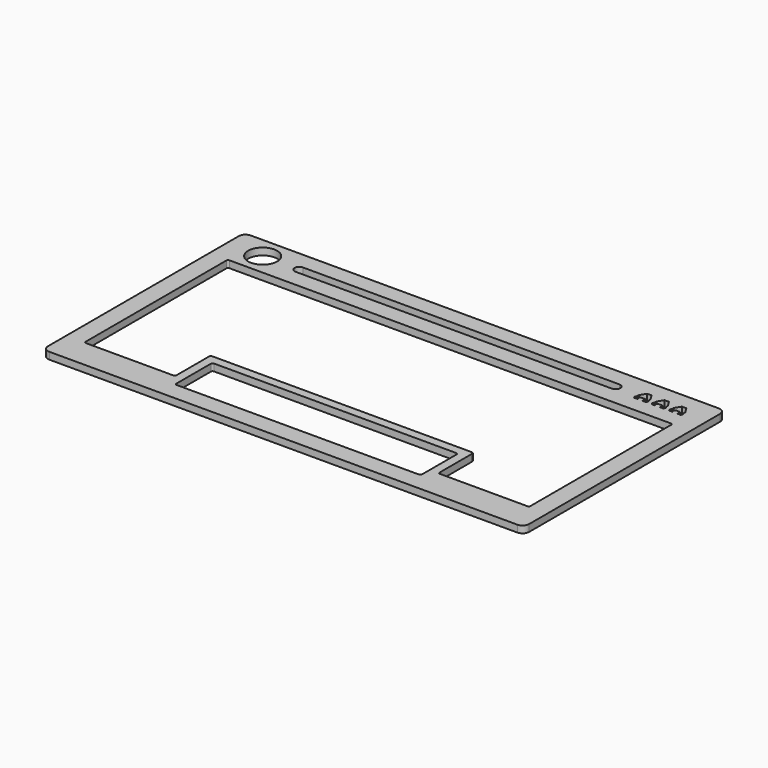
from build123d import *

# Parameters (mm, degrees)
SHAPEBINDER_W   = 20.05
SHAPEBINDER_H   = 105.775
SHAPEBINDER_R   = 6.25
PAD001_DEPTH    = 3
POCKET006_DEPTH = 3
FILLET001_R     = 0.75
SKETCH035_W     = 20
SKETCH035_H     = 1.5625
PAD015_DEPTH    = 3
POCKET025_DEPTH = 5


with BuildPart() as part:
    # ShapeBinder → Pad001 (new body)
    with BuildSketch(Plane(origin=(1.263411, 2.723963, 4.9), x_dir=(0, 1, 0), z_dir=(0, 0, 1))):
        with BuildLine():
            ThreePointArc((51.638537, 102.013411), (50.759858, 104.134731), (48.638537, 105.013411))
            Line((48.638537, 105.013411), (-54.086463, 105.013411))
            ThreePointArc((-54.086463, 105.013411), (-56.207783, 104.134731), (-57.086463, 102.013411))
            Line((-57.086463, 102.013411), (-57.086463, -99.486589))
            ThreePointArc((-57.086463, -99.486589), (-56.207783, -101.607909), (-54.086463, -102.486589))
            Line((-54.086463, -102.486589), (48.638537, -102.486589))
            ThreePointArc((48.638537, -102.486589), (50.759858, -101.607909), (51.638537, -99.486589))
            Line((51.638537, -99.486589), (51.638537, 102.013411))
        make_face()
        with Locations((-39.061463, 1.263411)):
            Rectangle(SHAPEBINDER_W, SHAPEBINDER_H, mode=Mode.SUBTRACT)
        Polygon((-44.323963, 97.013411), (32.876037, 97.013411), (32.876037, -94.486589), (-44.323963, -94.486589), (-44.323963, -55.386589), (-25.273963, -55.386589), (-25.273963, 57.913411), (-44.323963, 57.913411), align=None, mode=Mode.SUBTRACT)
        with Locations((42.257287, 89.483411)):
            Circle(SHAPEBINDER_R, mode=Mode.SUBTRACT)
        with BuildLine():
            ThreePointArc((40.257287, 73.733411), (42.257287, 75.733411), (44.257287, 73.733411))
            Line((44.257287, 73.733411), (44.257287, -62.486589))
            ThreePointArc((44.257287, -62.486589), (42.257287, -64.486589), (40.257287, -62.486589))
            Line((40.257287, -62.486589), (40.257287, 73.733411))
        make_face(mode=Mode.SUBTRACT)
        Polygon((42.257287, -72.486589), (44.757287, -74.049089), (44.757287, -75.924089), (42.257287, -77.486589), (41.319787, -77.486589), (41.319787, -76.861589), (40.538537, -77.486589), (39.757287, -76.861589), (39.757287, -75.611589), (40.538537, -76.236589), (41.319787, -75.611589), (41.319787, -74.361589), (40.538537, -73.736589), (39.757287, -74.361589), (39.757287, -73.111589), (40.538537, -72.486589), (41.319787, -73.111589), (41.319787, -72.486589), align=None, mode=Mode.SUBTRACT)
        Polygon((42.257287, -79.986589), (44.757287, -81.549089), (44.757287, -83.424089), (42.257287, -84.986589), (41.319787, -84.986589), (41.319787, -84.361589), (40.538537, -84.986589), (39.757287, -84.361589), (39.757287, -83.111589), (40.538537, -83.736589), (41.319787, -83.111589), (41.319787, -81.861589), (40.538537, -81.236589), (39.757287, -81.861589), (39.757287, -80.611589), (40.538537, -79.986589), (41.319787, -80.611589), (41.319787, -79.986589), align=None, mode=Mode.SUBTRACT)
        Polygon((42.257287, -87.486589), (44.757287, -89.049089), (44.757287, -90.924089), (42.257287, -92.486589), (41.319787, -92.486589), (41.319787, -91.861589), (40.538537, -92.486589), (39.757287, -91.861589), (39.757287, -90.611589), (40.538537, -91.236589), (41.319787, -90.611589), (41.319787, -89.361589), (40.538537, -88.736589), (39.757287, -89.361589), (39.757287, -88.111589), (40.538537, -87.486589), (41.319787, -88.111589), (41.319787, -87.486589), align=None, mode=Mode.SUBTRACT)
    extrude(amount=PAD001_DEPTH)

    # Sketch007 (on Face80 of Pad001) → Pocket006 (cut)
    with BuildSketch(Plane(origin=(0, 0, 4.9), x_dir=(1, 0, 0), z_dir=(0, 0, -1))):
        with BuildLine():
            ThreePointArc((-100.75, 56.3625), (-104.285534, 54.898034), (-105.75, 51.3625))
            Line((-105.75, -51.3625), (-105.75, 51.3625))
            ThreePointArc((-105.75, -51.3625), (-104.285534, -54.898034), (-100.75, -56.3625))
            Line((100.75, -56.3625), (-100.75, -56.3625))
            ThreePointArc((100.75, -56.3625), (104.285534, -54.898034), (105.75, -51.3625))
            Line((105.75, 51.3625), (105.75, -51.3625))
            ThreePointArc((105.75, 51.3625), (104.285534, 54.898034), (100.75, 56.3625))
            Line((-100.75, 56.3625), (100.75, 56.3625))
        make_face()
        with BuildLine():
            ThreePointArc((-100.75, 54.2125), (-102.765254, 53.377754), (-103.6, 51.3625))
            Line((-103.6, -51.3625), (-103.6, 51.3625))
            ThreePointArc((-103.6, -51.3625), (-102.765254, -53.377754), (-100.75, -54.2125))
            Line((100.75, -54.2125), (-100.75, -54.2125))
            ThreePointArc((100.75, -54.2125), (102.765254, -53.377754), (103.6, -51.3625))
            Line((103.6, 51.3625), (103.6, -51.3625))
            ThreePointArc((103.6, 51.3625), (102.765254, 53.377754), (100.75, 54.2125))
            Line((-100.75, 54.2125), (100.75, 54.2125))
        make_face(mode=Mode.SUBTRACT)
    extrude(amount=-POCKET006_DEPTH, mode=Mode.SUBTRACT)

    # Fillet001
    fillet001_edges = [part.edges().sort_by_distance(p)[0] for p in [
        (-95.75, 35.6, 6.4),
        (-95.75, -41.6, 6.4),
        (-56.65, -22.55, 6.4),
        (-56.65, -41.6, 6.4),
        (-52.8875, -46.3625, 6.4),
        (52.8875, -46.3625, 6.4),
        (52.8875, -26.3125, 6.4),
        (95.75, 35.6, 6.4),
        (-52.8875, -26.3125, 6.4),
        (95.75, -41.6, 6.4),
        (56.65, -22.55, 6.4),
        (56.65, -41.6, 6.4),
    ]]
    fillet(fillet001_edges, radius=FILLET001_R)

    # Sketch035 (on Face93 of Fillet001) → Pad015 (join)
    with BuildSketch(Plane.XY.offset(7.9)):
        with Locations((83.75, 43.2625)):
            Rectangle(SKETCH035_W, SKETCH035_H)
    extrude(amount=-PAD015_DEPTH)

    # Sketch036 (on Face69 of Pad015) → Pocket025 (cut)
    with BuildSketch(Plane.XY.offset(7.9)):
        Polygon((73.75, 44.04375), (73.35, 43.2625), (73.75, 42.48125), (75.25, 42.48125), (74.85, 43.2625), (75.25, 44.04375), align=None)
        Polygon((78.75, 44.04375), (79.15, 43.2625), (78.75, 42.48125), (77.25, 42.48125), (77.65, 43.2625), (77.25, 44.04375), align=None)
        Polygon((81.25, 44.04375), (80.85, 43.2625), (81.25, 42.48125), (82.75, 42.48125), (82.35, 43.2625), (82.75, 44.04375), align=None)
        Polygon((86.25, 44.04375), (86.65, 43.2625), (86.25, 42.48125), (84.75, 42.48125), (85.15, 43.2625), (84.75, 44.04375), align=None)
        Polygon((88.75, 44.04375), (88.35, 43.2625), (88.75, 42.48125), (90.25, 42.48125), (89.85, 43.2625), (90.25, 44.04375), align=None)
        Polygon((93.75, 44.04375), (92.25, 44.04375), (92.65, 43.2625), (92.25, 42.48125), (93.75, 42.48125), (94.15, 43.2625), align=None)
    extrude(amount=-POCKET025_DEPTH, mode=Mode.SUBTRACT)


solid = part.part
